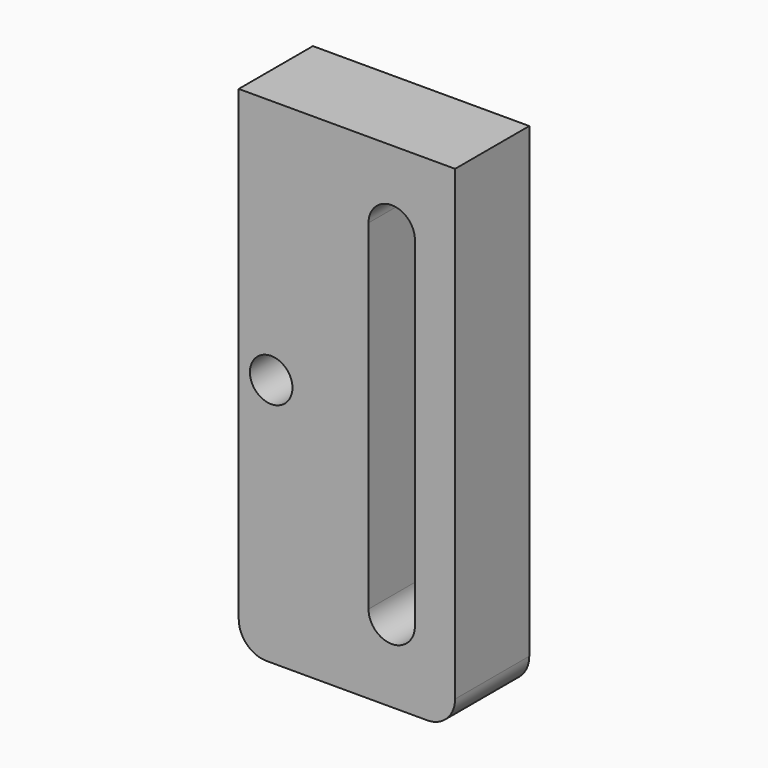
from build123d import *

# Parameters (mm, degrees)
PAD007_DEPTH = 2
SKETCH012_R  = 1.375
PAD004_DEPTH = 6


with BuildPart() as slotscrew:
    # Sketch020 → Pad007 (new body)
    with BuildSketch(Plane.XZ):
        with BuildLine():
            ThreePointArc((8.9, 35), (5.9, 38), (2.9, 35))
            Line((2.9, 35), (2.9, 13))
            ThreePointArc((2.9, 13), (5.9, 10), (8.9, 13))
            Line((8.9, 13), (8.9, 35))
        make_face()
    extrude(amount=PAD007_DEPTH)


with BuildPart() as slotscrew_1:
    # Body009 placement: moved
    add(slotscrew.part.moved(Location((-0.028, 0.002, -39.747))))


with BuildPart() as base:
    # Sketch012 → Pad004 (new body)
    with BuildSketch(Plane.XZ):
        with BuildLine():
            Line((-4, 0), (10, 0))
            Line((10, 0), (10, -30.2))
            ThreePointArc((8.2, -32), (9.472792, -31.472792), (10, -30.2))
            Line((8.2, -32), (-2.2, -32))
            ThreePointArc((-4, -30.2), (-3.472792, -31.472792), (-2.2, -32))
            Line((-4, -30.2), (-4, 0))
        make_face()
        with Locations((-1.9, -15.9)):
            Circle(SKETCH012_R, mode=Mode.SUBTRACT)
        with BuildLine():
            ThreePointArc((4.4, -26.9), (5.9, -28.4), (7.4, -26.9))
            Line((7.4, -26.9), (7.4, -4.9))
            ThreePointArc((7.4, -4.9), (5.9, -3.4), (4.4, -4.9))
            Line((4.4, -4.9), (4.4, -26.9))
        make_face(mode=Mode.SUBTRACT)
    extrude(amount=PAD004_DEPTH)

    # Cut044: cut slotscrew
    add(slotscrew_1.part, mode=Mode.SUBTRACT)


with BuildPart() as base_1:
    # Cut044 placement: moved
    add(base.part.moved(Location((0, 5.988, 0))))


solid = base_1.part
